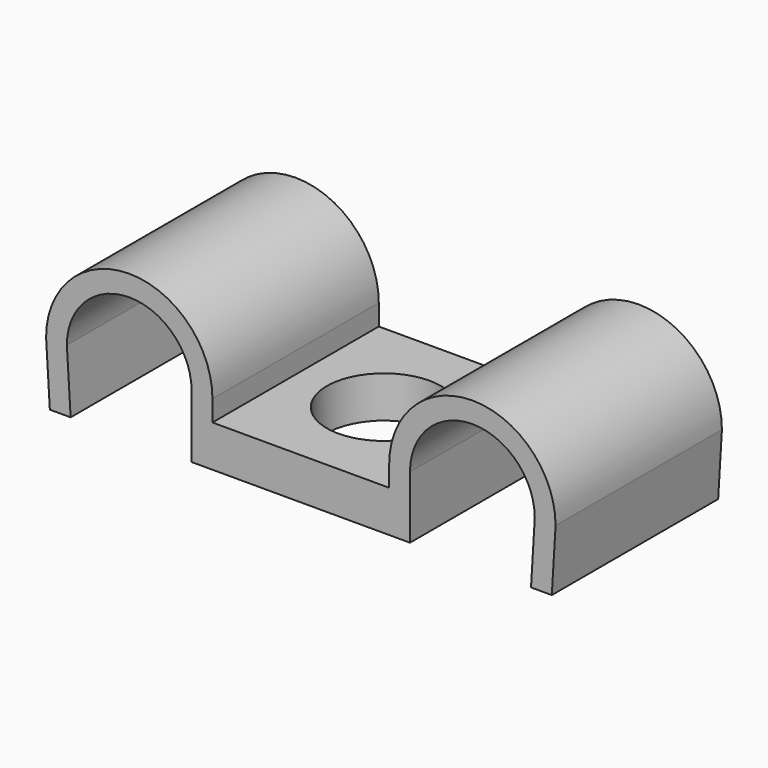
from build123d import *

# Parameters (mm, degrees)
F1_DEPTH = 10
F2_R     = 2.75
F3_DEPTH = 2.5


with BuildPart() as f1:
    # F0 (on Front) → F1 (new body)
    with BuildSketch(Plane.XZ):
        with BuildLine():
            ThreePointArc((-4.25, 0), (-8.25, 4), (-12.25, 0))
            Line((-12.25, 0), (-12.069366, -3))
            Line((-12.069366, -3), (-11.069366, -3))
            Line((-11.069366, -3), (-11.25, 0))
            ThreePointArc((-11.25, 0), (-8.25, 3), (-5.25, 0))
            Line((-5.25, 0), (-5.25, -3))
            Line((-5.25, -3), (5.25, -3))
            Line((5.25, -3), (5.25, 0))
            ThreePointArc((5.25, 0), (8.25, 3), (11.25, 0))
            Line((11.25, 0), (11.069366, -3))
            Line((11.069366, -3), (12.069366, -3))
            Line((12.069366, -3), (12.25, 0))
            ThreePointArc((12.25, 0), (8.25, 4), (4.25, 0))
            Line((4.25, 0), (4.25, -1))
            Line((4.25, -1), (-4.25, -1))
            Line((-4.25, -1), (-4.25, 0))
        make_face()
    extrude(amount=F1_DEPTH)

    # F2 (on face) → F3 (cut)
    with BuildSketch(Plane.XY.offset(-1)):
        with Locations((0, -5)):
            Circle(F2_R)
    extrude(amount=-F3_DEPTH, mode=Mode.SUBTRACT)


solid = f1.part
